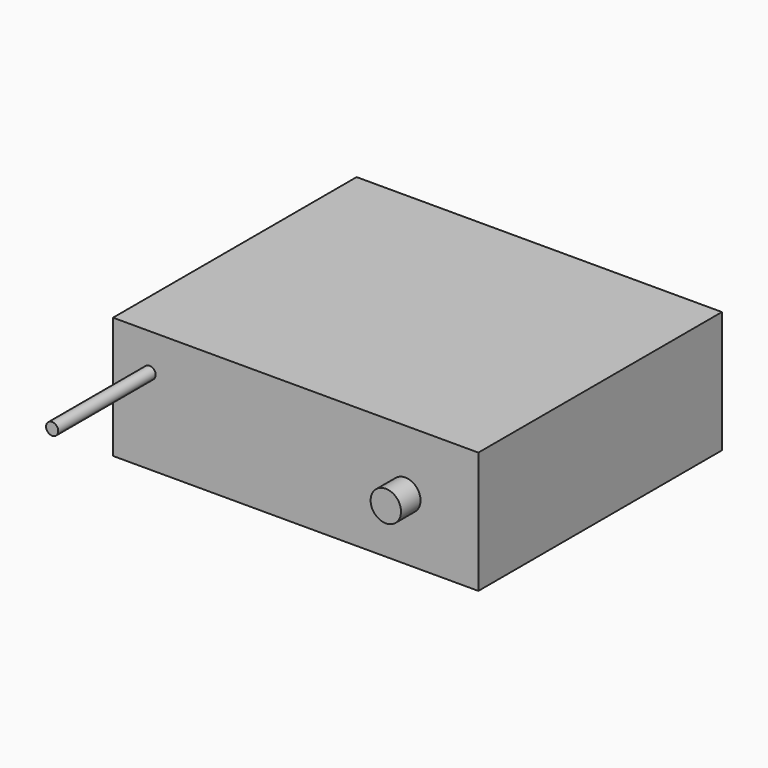
from build123d import *

# Parameters (mm, degrees)
F0_W     = 30
F0_H     = 10
F1_DEPTH = 25
F2_R     = 1.25
F3_DEPTH = 2
F4_R     = 0.5
F5_DEPTH = 10


with BuildPart() as f1:
    # F0 (on Front) → F1 (new body)
    with BuildSketch(Plane.XZ):
        with Locations((-31.001214, 5)):
            Rectangle(F0_W, F0_H)
    extrude(amount=-F1_DEPTH)

    # F2 (on face) → F3 (join)
    with BuildSketch(Plane.XZ):
        with Locations((-22.001214, 5)):
            Circle(F2_R)
    extrude(amount=F3_DEPTH)

    # F4 (on face) → F5 (join)
    with BuildSketch(Plane.XZ):
        with Locations((-43.001214, 7)):
            Circle(F4_R)
    extrude(amount=F5_DEPTH)


solid = f1.part
